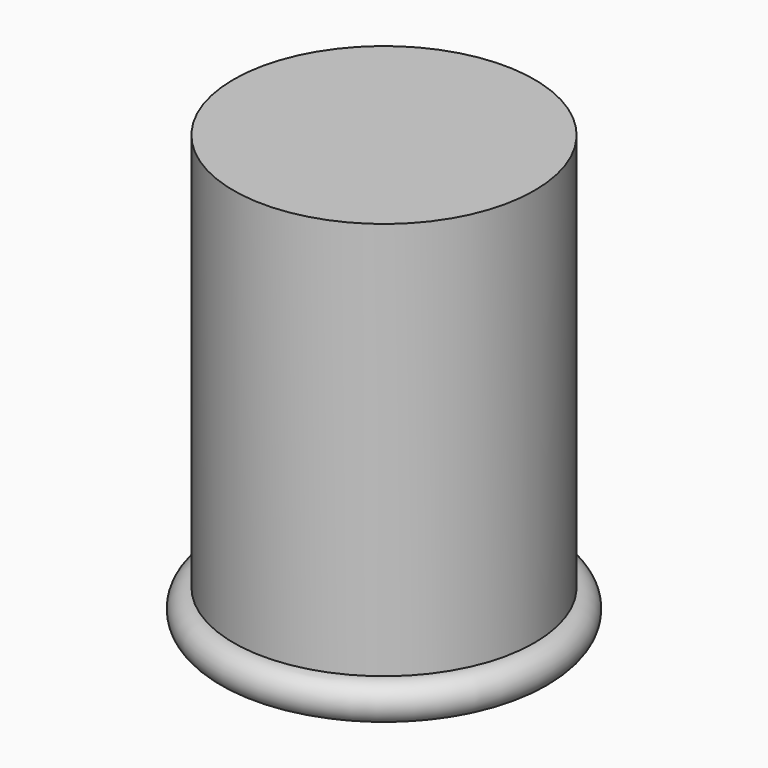
from build123d import *

# Parameters (mm, degrees)
F0_R     = 39.405716
F1_DEPTH = 109.22
F2_R     = 4.938114


with BuildPart() as f1:
    # F0 (on Top) → F1 (new body)
    with BuildSketch(Plane.XY):
        Circle(F0_R)
    extrude(amount=F1_DEPTH)

    # F2 (on Front) → F4 (revolve)
    with BuildSketch(Plane.XZ):
        with Locations((-39.495394, 0)):
            Circle(F2_R)
    revolve(axis=Axis((0, 0, -34.601416), (0, 0, -1)))


solid = f1.part
